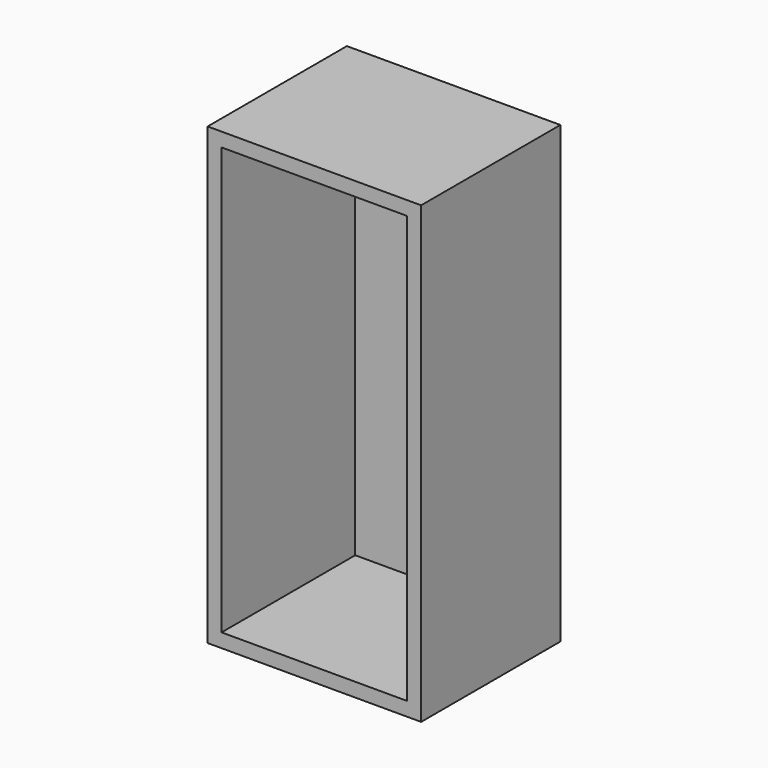
from build123d import *

# Parameters (mm, degrees)
F0_W     = 58.42
F0_H     = 124.46
F1_DEPTH = 47.625
F3_DEPTH = 45.72


with BuildPart() as f1:
    # F0 (on Front) → F1 (new body)
    with BuildSketch(Plane.XZ):
        with Locations((-29.519358, 62.23)):
            Rectangle(F0_W, F0_H)
    extrude(amount=F1_DEPTH)

    # F2 (on face) → F3 (cut)
    with BuildSketch(Plane.XZ.offset(47.625)):
        Polygon((-4.119358, 120.65), (-48.44141, 120.65), (-54.919358, 120.65), (-54.919358, 110.145681), (-54.919358, 3.81), (-48.441406, 3.81), (-4.119358, 3.81), (-4.119358, 32.373562), align=None)
    extrude(amount=-F3_DEPTH, mode=Mode.SUBTRACT)


solid = f1.part
